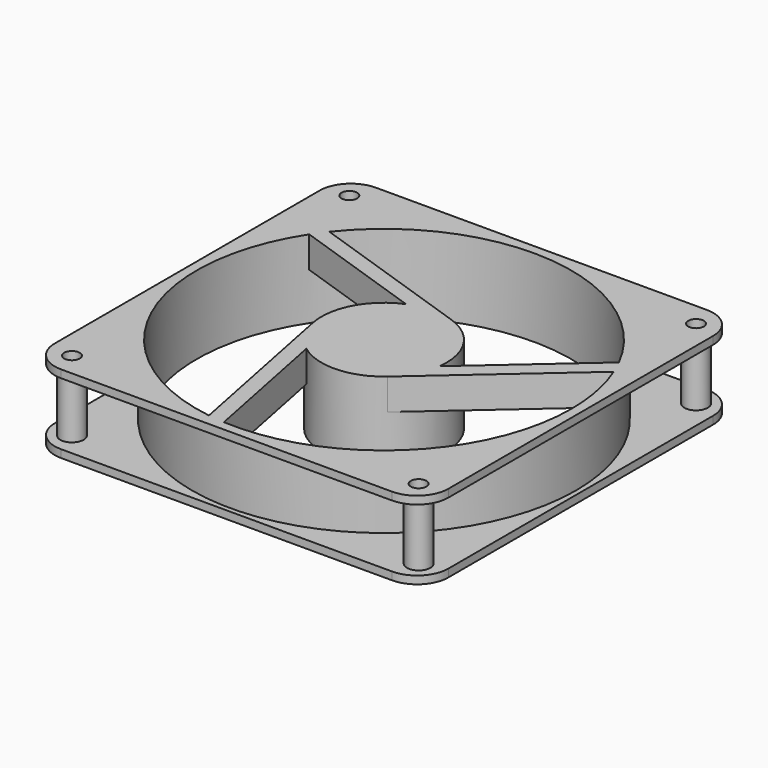
from build123d import *

# Parameters (mm, degrees)
F0_W     = 126
F0_H     = 126
F1_DEPTH = 12.5
F6_R     = 60
F6_R_2   = 20
F6_R_3   = 2.5
F7_DEPTH = 25.001
F3_DEPTH = 10
F4_W     = 126
F4_H     = 126
F4_R     = 3.75
F4_R_2   = 61.5
F8_DEPTH = 10
F5_R     = 10


with BuildPart() as f1:
    # F0 (on Top) → F1 (new body, symmetric)
    with BuildSketch(Plane.XY):
        Rectangle(F0_W, F0_H)
    extrude(amount=F1_DEPTH, both=True)

    # F6 (on face) → F7 (cut, through all)
    with BuildSketch(Plane.XY.offset(12.5)):
        Circle(F6_R)
        Circle(F6_R_2, mode=Mode.SUBTRACT)
        with Locations((55.5, -55.5)):
            Circle(F6_R_3)
        with Locations((-55.5, -55.5)):
            Circle(F6_R_3)
        with Locations((-55.5, 55.5)):
            Circle(F6_R_3)
        with Locations((55.5, 55.5)):
            Circle(F6_R_3)
    extrude(amount=-F7_DEPTH, mode=Mode.SUBTRACT)

    # F2 (on face) → F3 (join)
    with BuildSketch(Plane.XY.offset(12.5)):
        with BuildLine():
            Line((6.416974, 18.942609), (-47.160816, 37.092552))
            ThreePointArc((-47.160816, 37.092552), (-48.731962, 35.002798), (-50.210577, 32.846582))
            Line((-50.210577, 32.846582), (-7.716628, 18.451386))
            ThreePointArc((-7.716628, 18.451386), (-0.694694, 19.987931), (6.416974, 18.942609))
        make_face()
        with BuildLine():
            ThreePointArc((-8.542685, -59.388741), (-5.947332, -59.704516), (-3.340686, -59.906926))
            Line((-3.340686, -59.906926), (-12.121055, -15.908489))
            ThreePointArc((-12.121055, -15.908489), (-16.962709, -10.595589), (-19.613268, -3.914042))
            Line((-19.613268, -3.914042), (-8.542685, -59.388741))
        make_face()
        with BuildLine():
            ThreePointArc((55.703501, 22.296188), (54.679293, 24.701718), (53.551263, 27.060344))
            Line((53.551263, 27.060344), (19.837683, -2.542897))
            ThreePointArc((19.837683, -2.542897), (17.657403, -9.392343), (13.196294, -15.028567))
            Line((13.196294, -15.028567), (55.703501, 22.296188))
        make_face()
    extrude(amount=-F3_DEPTH)

    # F4 (on Top) → F8 (cut, symmetric)
    with BuildSketch(Plane.XY):
        Rectangle(F4_W, F4_H)
        with Locations((-55.5, -55.5)):
            Circle(F4_R, mode=Mode.SUBTRACT)
        with Locations((55.5, -55.5)):
            Circle(F4_R, mode=Mode.SUBTRACT)
        with Locations((-55.5, 55.5)):
            Circle(F4_R, mode=Mode.SUBTRACT)
        Circle(F4_R_2, mode=Mode.SUBTRACT)
        with Locations((55.5, 55.5)):
            Circle(F4_R, mode=Mode.SUBTRACT)
    extrude(amount=F8_DEPTH, both=True, mode=Mode.SUBTRACT)

    # F5
    f5_edges = [f1.edges().sort_by_distance(p)[0] for p in [
        (63, 63, -11.25),
        (63, 63, 11.25),
        (-63, 63, -11.25),
        (-63, 63, 11.25),
        (-63, -63, -11.25),
        (-63, -63, 11.25),
        (63, -63, -11.25),
        (63, -63, 11.25),
    ]]
    fillet(f5_edges, radius=F5_R)


solid = f1.part
